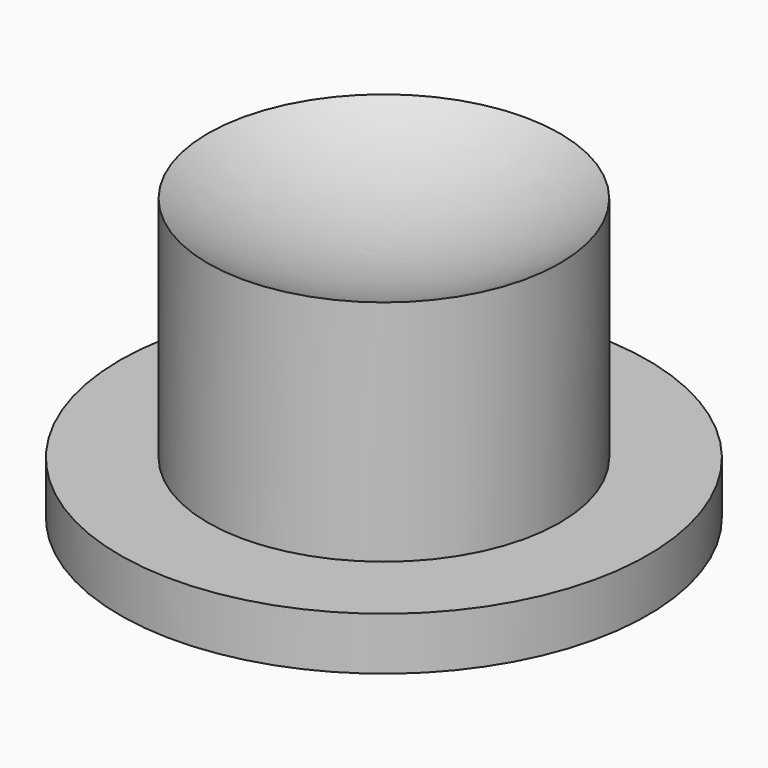
from build123d import *


with BuildPart() as f1:
    # F0 (on Front) → F1 (revolve)
    with BuildSketch(Plane.XZ):
        Polygon((-15, 0), (0, 0), (0, 3), (-10, 3), (-15, 3), align=None)
        with BuildLine():
            Line((-10, 3), (0, 3))
            Line((0, 3), (0, 13))
            ThreePointArc((0, 13), (-5.21619, 13.758799), (-10, 15.972296))
            Line((-10, 15.972296), (-10, 3))
        make_face()
    revolve(axis=Axis((0, 0, 8), (0, 0, -1)))


solid = f1.part
